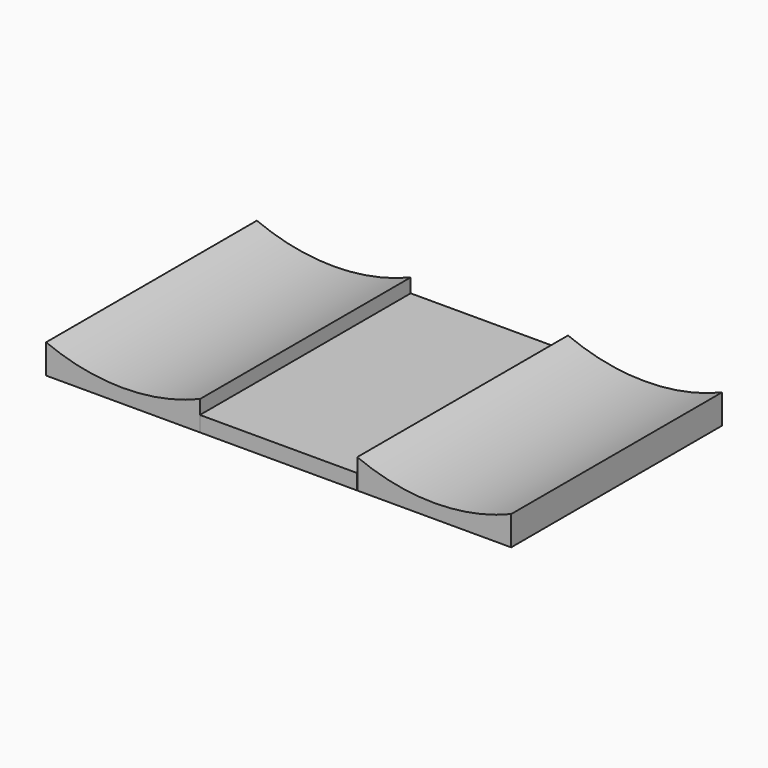
from build123d import *

# Parameters (mm, degrees)
F1_DEPTH = 60
F2_W     = 35.80684
F2_H     = 60
F3_DEPTH = 3.5


with BuildPart() as f1:
    # F0 (on Front) → F1 (new body)
    with BuildSketch(Plane.XZ):
        with BuildLine():
            Line((-17.961221, -3.5), (-17.90851, 3.202184))
            ThreePointArc((-17.90851, 3.202184), (-35.432694, -0.295219), (-52.961221, 3.180348))
            Line((-52.961221, 3.180348), (-52.961221, -3.5))
            Line((-52.961221, -3.5), (-17.961221, -3.5))
        make_face()
        with BuildLine():
            ThreePointArc((52.961221, 3.180348), (35.432694, -0.295219), (17.90851, 3.202184))
            Line((17.90851, 3.202184), (17.961221, -3.5))
            Line((17.961221, -3.5), (52.961221, -3.5))
            Line((52.961221, -3.5), (52.961221, 3.180348))
        make_face()
    extrude(amount=F1_DEPTH)


with BuildPart() as f3:
    # F2 (on Top) → F3 (new body)
    with BuildSketch(Plane.XY):
        with Locations((-0.019479, -30)):
            Rectangle(F2_W, F2_H)
    extrude(amount=-F3_DEPTH)


solid = Compound([f1.part, f3.part])
